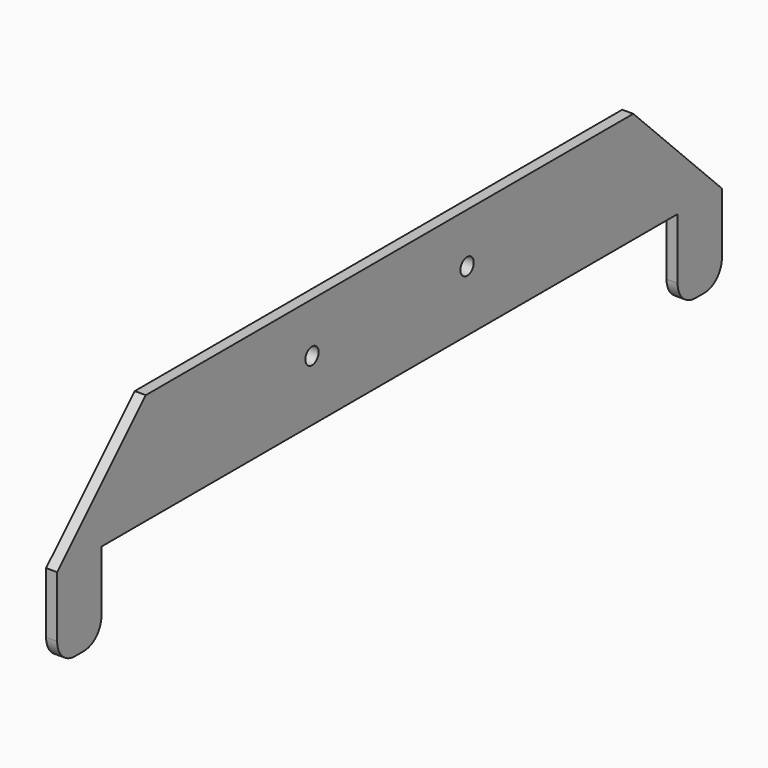
from build123d import *

# Parameters (mm, degrees)
SKETCH018_W     = 150
SKETCH018_H     = 35
PAD010_DEPTH    = 2
SKETCH019_W     = 130
SKETCH019_H     = 50
POCKET007_DEPTH = 2
FILLET_R        = 4
SKETCH020_R     = 1.5
POCKET008_DEPTH = 2
CHAMFER002_SIZE = 20


with BuildPart() as part:
    # Sketch018 → Pad010 (new body)
    with BuildSketch(Plane.YZ):
        with Locations((0, 7.5)):
            Rectangle(SKETCH018_W, SKETCH018_H)
    extrude(amount=PAD010_DEPTH)

    # Sketch019 → Pocket007 (cut)
    with BuildSketch(Plane.YZ):
        with Locations((0, -20)):
            Rectangle(SKETCH019_W, SKETCH019_H)
    extrude(amount=POCKET007_DEPTH, mode=Mode.SUBTRACT)

    # Fillet
    fillet_edges = [part.edges().sort_by_distance(p)[0] for p in [
        (1, -65, -10),
        (1, -75, -10),
        (1, 65, -10),
        (1, 75, -10),
    ]]
    fillet(fillet_edges, radius=FILLET_R)

    # Sketch020 → Pocket008 (cut)
    with BuildSketch(Plane.YZ):
        with Locations((17.5, 16)):
            Circle(SKETCH020_R)
        with Locations((-17.5, 16)):
            Circle(SKETCH020_R)
    extrude(amount=POCKET008_DEPTH, mode=Mode.SUBTRACT)

    # Chamfer002
    chamfer002_edges = [part.edges().sort_by_distance(p)[0] for p in [
        (1, -75, 25),
        (1, 75, 25),
    ]]
    chamfer(chamfer002_edges, length=CHAMFER002_SIZE)


solid = part.part
